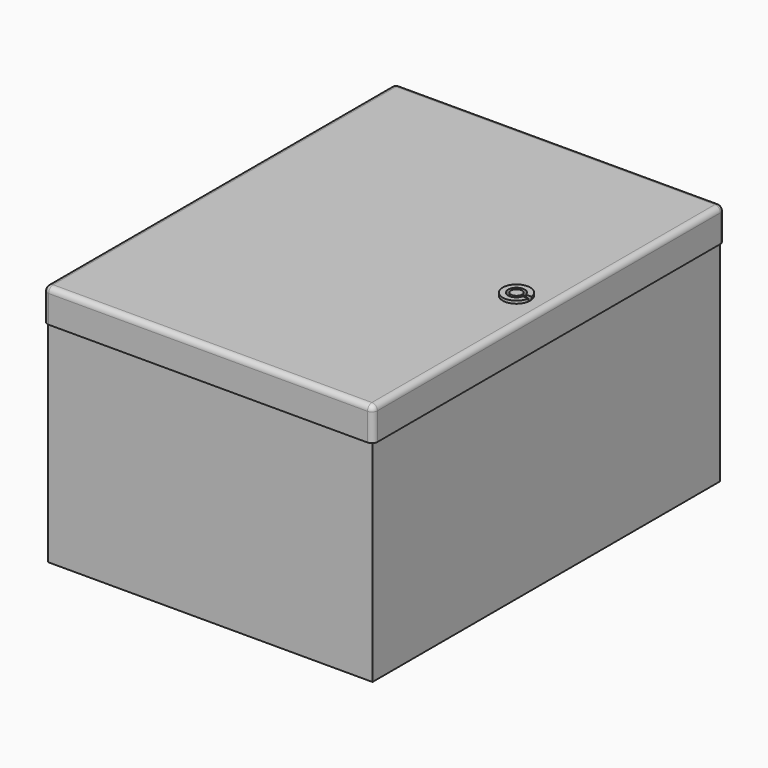
from build123d import *

# Parameters (mm, degrees)
F0_W     = 295
F0_H     = 395
F1_DEPTH = 110
F3_W     = 300
F3_H     = 400
F4_DEPTH = 30
F5_R     = 5
F7_DEPTH = 2.5
F6_R     = 5
F8_R     = 5
F9_DEPTH = 2.5


with BuildPart() as f1:
    # F0 (on Top) → F1 (new body, symmetric)
    with BuildSketch(Plane.XY):
        with Locations((2.5, 2.5)):
            Rectangle(F0_W, F0_H)
    extrude(amount=F1_DEPTH, both=True)

    # F3 (on offset) → F4 (join)
    with BuildSketch(Plane.XY.offset(112)):
        with Locations((2.5, 2.5)):
            Rectangle(F3_W, F3_H)
    extrude(amount=-F4_DEPTH)

    # F5
    f5_edges = [f1.edges().sort_by_distance(p)[0] for p in [
        (152.5, 2.5, 112),
        (2.5, 202.5, 112),
        (-147.5, 2.5, 112),
        (2.5, -197.5, 112),
        (152.5, 202.5, 97),
        (-147.5, 202.5, 97),
        (152.5, -197.5, 97),
        (-147.5, -197.5, 97),
    ]]
    fillet(f5_edges, radius=F5_R)

    # F8 (on face) → F9 (cut)
    with BuildSketch(Plane.XY.offset(112)):
        with BuildLine():
            Line((137.3837093672, 1.7011003229), (132.3045367883, 1.7011003229))
            ThreePointArc((132.3045367883, 1.7011003229), (117.5, 0), (132.3045367883, -1.7011003229))
            Line((132.3045367883, -1.7011003229), (137.3837093672, -1.7011003229))
            Line((137.3837093672, -1.7011003229), (137.3837093672, 1.7011003229))
        make_face()
        with Locations((125, 0)):
            Circle(F8_R, mode=Mode.SUBTRACT)
    extrude(amount=-F9_DEPTH, mode=Mode.SUBTRACT)


with BuildPart() as f7:
    # F6 (on face) → F7 (new body)
    with BuildSketch(Plane.XY.offset(112)):
        with BuildLine():
            Line((132.3045367883, 1.7011003229), (137.3837093672, 1.7011003229))
            ThreePointArc((137.3837093672, 1.7011003229), (124.1474646899, 12.4708934542), (112.5, 0))
            Line((112.5, 0), (113.0843860939, -3.777319849))
            ThreePointArc((113.0843860939, -3.777319849), (126.0641664439, -12.454619616), (137.3837093672, -1.7011003229))
            Line((137.3837093672, -1.7011003229), (132.3045367883, -1.7011003229))
            ThreePointArc((132.3045367883, -1.7011003229), (117.5, 0), (132.3045367883, 1.7011003229))
        make_face()
    extrude(amount=F7_DEPTH)


with BuildPart() as f7b:
    # F6 (on face) → F7, piece 2 (new body)
    with BuildSketch(Plane.XY.offset(112)):
        with Locations((125, 0)):
            Circle(F6_R)
    extrude(amount=F7_DEPTH)


solid = Compound([f1.part, f7.part, f7b.part])
